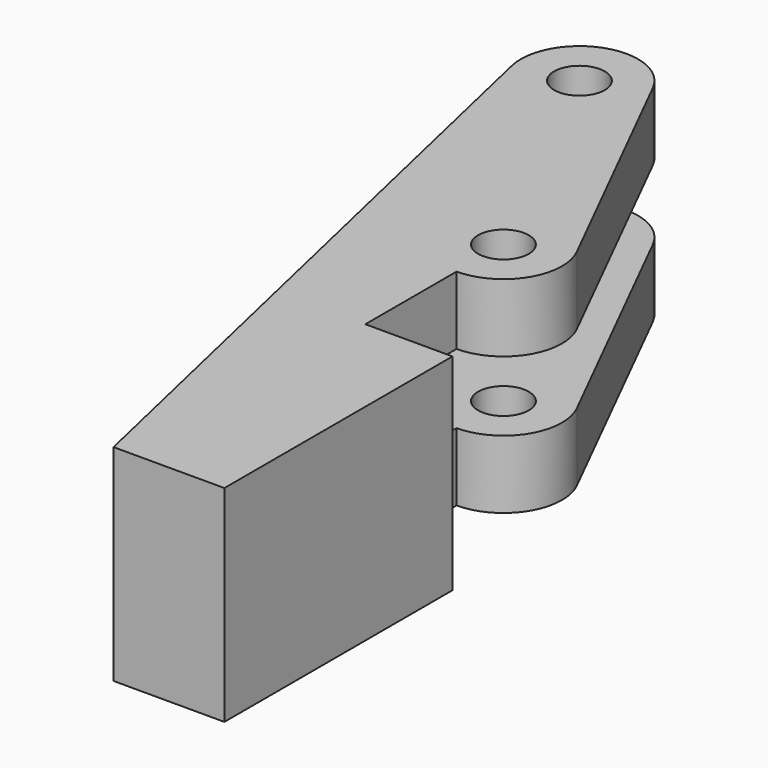
from build123d import *

# Parameters (mm, degrees)
CYLINDER005_R     = 1.6
CYLINDER005_DEPTH = 30
PAD001_DEPTH      = 13
SKETCH001_W       = 28
SKETCH001_H       = 4.4
POCKET002_DEPTH   = 7.4


with BuildPart() as finger_drill_master:
    # Cylinder005 → Cylinder005 (new body)
    with BuildSketch(Plane.XY.offset(-8)):
        Circle(CYLINDER005_R)
    extrude(amount=CYLINDER005_DEPTH)


with BuildPart() as clone001:
    # Clone001 base: copy of finger-drill-master
    add(finger_drill_master.part)


with BuildPart() as clone001_1:
    # Clone001 placement: moved
    add(clone001.part.moved(Location((-5.5, 28.9, 0))))


with BuildPart() as finger_drills:
    # Clone002 base: copy of finger-drill-master
    add(finger_drill_master.part)


with BuildPart() as finger_drills_1:
    # Clone002 placement: moved
    add(finger_drills.part.moved(Location((-13.5, 44.9, 0))))

    # Fusion011: union Clone001
    add(clone001_1.part)


with BuildPart() as obj1:
    # Sketch007 → Pad001 (new body)
    with BuildSketch(Plane.XY):
        with BuildLine():
            Line((0, 0), (0, 18))
            Line((0, 18), (-5.5, 18))
            Line((-5.5, 18), (-5.5, 25.2))
            ThreePointArc((-5.5, 25.2), (-2.3525883805, 26.9548007564), (-2.1906255667, 30.55470265))
            Line((-10.1906192745, 46.5546900658), (-2.1906255667, 30.55470265))
            ThreePointArc((-10.1906192745, 46.5546900658), (-14.7496924515, 48.3825664066), (-17.1063967324, 44.0730159565))
            Line((-17.1063967324, 44.0730159565), (-7, 0))
            Line((-7, 0), (0, 0))
        make_face()
    extrude(amount=PAD001_DEPTH)

    # Sketch001 → Pocket002 (cut)
    with BuildSketch(Plane(origin=(10.4693806066, 5.2346903033, 0), x_dir=(-0.4472135955, 0.894427191, 0), z_dir=(0.894427191, 0.4472135955, 0))):
        with Locations((37.2528992744, 6.5)):
            Rectangle(SKETCH001_W, SKETCH001_H)
    extrude(amount=-POCKET002_DEPTH, mode=Mode.SUBTRACT)

    # Cut012: cut finger-drills
    add(finger_drills_1.part, mode=Mode.SUBTRACT)


with BuildPart() as obj1_1:
    # Cut012 placement: moved
    add(obj1.part.moved(Location((0, -57, 0))))


solid = obj1_1.part
